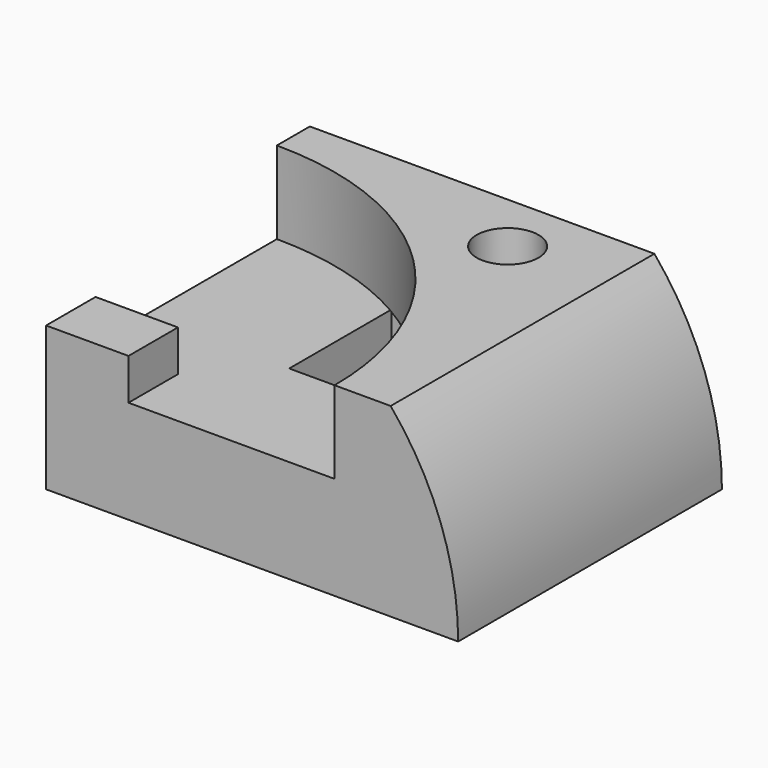
from build123d import *

# Parameters (mm, degrees)
F0_W      = 100
F0_H      = 45
F1_DEPTH  = 80
F2_R      = 7.5
F3_DEPTH  = 30
F5_DEPTH  = 20
F6_W      = 20
F6_H      = 15
F7_DEPTH  = 10
F10_DEPTH = 80.001
F11_DEPTH = 25


with BuildPart() as f1:
    # F0 (on Front) → F1 (new body)
    with BuildSketch(Plane.XZ):
        with Locations((-50, 22.5)):
            Rectangle(F0_W, F0_H)
    extrude(amount=F1_DEPTH)

    # F2 (on face) → F3 (cut)
    with BuildSketch(Plane.XY.offset(45)):
        with Locations((-40, -15)):
            Circle(F2_R)
    extrude(amount=-F3_DEPTH, mode=Mode.SUBTRACT)

    # F4 (on face) → F5 (cut)
    with BuildSketch(Plane.XY.offset(45)):
        with BuildLine():
            Line((-100, -80), (-30, -80))
            ThreePointArc((-30, -80), (-50.5025253169, -30.5025253169), (-100, -10))
            Line((-100, -10), (-100, -80))
        make_face()
    extrude(amount=-F5_DEPTH, mode=Mode.SUBTRACT)

    # F6 (on face) → F7 (join)
    with BuildSketch(Plane.XY.offset(25)):
        with Locations((-90, -72.5)):
            Rectangle(F6_W, F6_H)
    extrude(amount=F7_DEPTH)

    # F9 (on face) → F10 (cut, through all)
    with BuildSketch(Plane.XZ.offset(80)):
        with BuildLine():
            ThreePointArc((-16.3809735262, 45), (-4.2226032243, 23.944395449), (0, 0))
            Line((0, 0), (0, 45))
            Line((0, 45), (-16.3809735262, 45))
        make_face()
    extrude(amount=-F10_DEPTH, mode=Mode.SUBTRACT)

    # F8 (on face) → F11 (cut)
    with BuildSketch(Plane(origin=(0, 0, 0), x_dir=(1, 0, 0), z_dir=(0, 0, -1))):
        with BuildLine():
            Line((-34, 50), (-65, 50))
            Line((-65, 50), (-65, 19))
            ThreePointArc((-65, 19), (-43.0796897832, 28.0796897832), (-34, 50))
        make_face()
    extrude(amount=-F11_DEPTH, mode=Mode.SUBTRACT)


solid = f1.part
